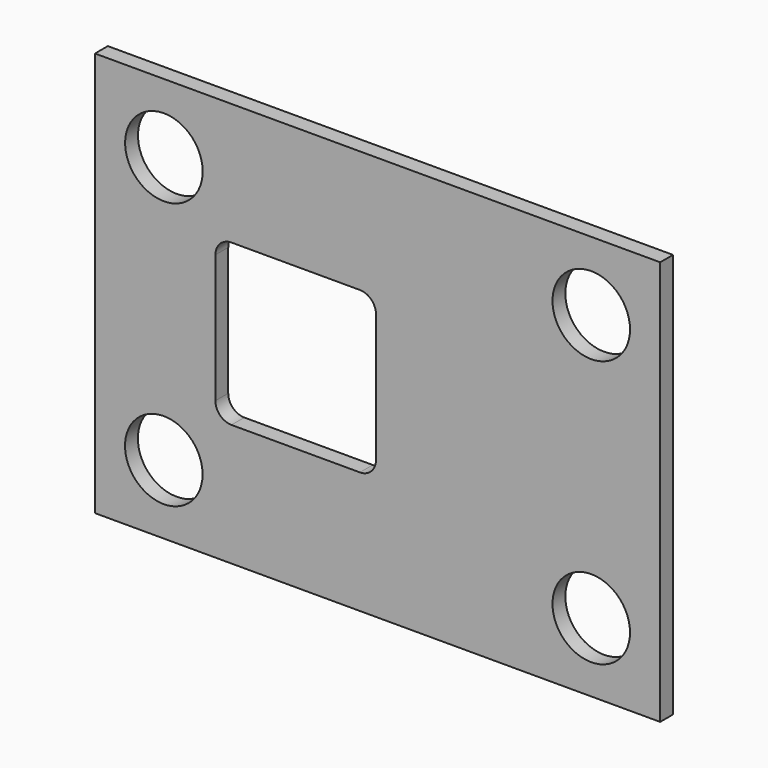
from build123d import *

# Parameters (mm, degrees)
F0_W     = 894.08
F0_H     = 640.08
F0_R     = 61.341
F1_DEPTH = 25.4


with BuildPart() as f1:
    # F0 (on Front) → F1 (new body)
    with BuildSketch(Plane.XZ):
        Rectangle(F0_W, F0_H)
        with Locations((-338.185633, -210.813498)):
            Circle(F0_R, mode=Mode.SUBTRACT)
        with Locations((338.000492, -211.000518)):
            Circle(F0_R, mode=Mode.SUBTRACT)
        with BuildLine():
            ThreePointArc((-27.94, 127), (-9.979488, 119.560512), (-2.54, 101.6))
            Line((-2.54, 101.6), (-2.54, -101.6))
            ThreePointArc((-2.54, -101.6), (-9.979488, -119.560512), (-27.94, -127))
            Line((-27.94, -127), (-231.14, -127))
            ThreePointArc((-231.14, -127), (-249.100512, -119.560512), (-256.54, -101.6))
            Line((-256.54, -101.6), (-256.54, 101.6))
            ThreePointArc((-256.54, 101.6), (-249.100512, 119.560512), (-231.14, 127))
            Line((-231.14, 127), (-27.94, 127))
        make_face(mode=Mode.SUBTRACT)
        with Locations((-338.000518, 211.000492)):
            Circle(F0_R, mode=Mode.SUBTRACT)
        with Locations((338.000492, 211.000492)):
            Circle(F0_R, mode=Mode.SUBTRACT)
    extrude(amount=F1_DEPTH)


solid = f1.part
